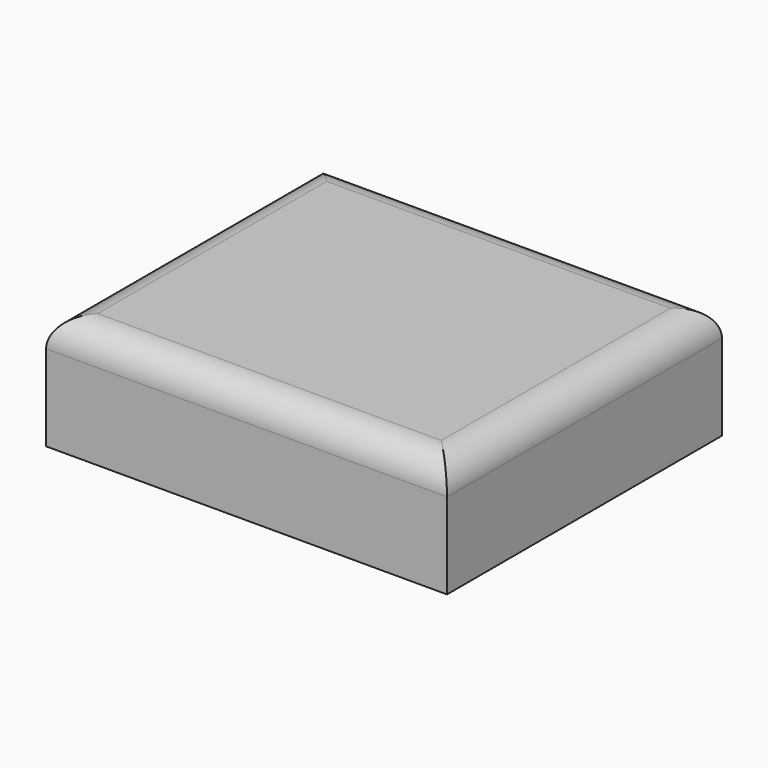
from build123d import *

# Parameters (mm, degrees)
F0_W     = 355.6
F0_H     = 304.8
F1_DEPTH = 25.4
F2_W     = 355.6
F2_H     = 304.8
F3_DEPTH = 76.2
F4_R     = 25.4


with BuildPart() as f1:
    # F0 (on Top) → F1 (new body)
    with BuildSketch(Plane.XY):
        Rectangle(F0_W, F0_H)
    extrude(amount=F1_DEPTH)

    # F2 (on face) → F3 (join)
    with BuildSketch(Plane.XY.offset(25.4)):
        Rectangle(F2_W, F2_H)
    extrude(amount=F3_DEPTH)

    # F4
    f4_edges = [f1.edges().sort_by_distance(p)[0] for p in [
        (-177.8, 0, 101.6),
        (0, -152.4, 101.6),
        (177.8, 0, 101.6),
        (0, 152.4, 101.6),
    ]]
    fillet(f4_edges, radius=F4_R)


solid = f1.part
